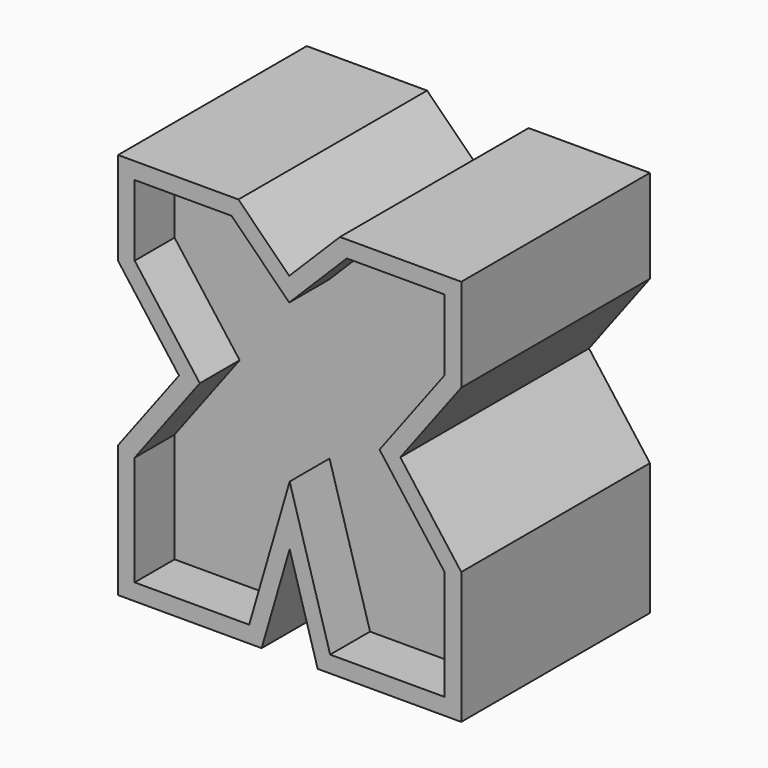
from build123d import *

# Parameters (mm, degrees)
F1_DEPTH = 45.0596
F2_DEPTH = 19.05


with BuildPart() as f1:
    # F0 (on Front) → F1 (new body)
    with BuildSketch(Plane.XZ):
        Polygon((0, 50.419), (0, 0), (54.864, 0), (65.5701, 36.8030026051), (76.2762, 0), (131.1402, 0), (131.1402, 50.419), (107.8484138495, 81.4324), (131.1402, 112.4458), (131.1402, 148.0566), (84.7852, 148.0566), (65.3923, 128.6637), (45.9994, 148.0566), (0, 148.0566), (0, 112.4458), (23.2917861505, 81.4324), align=None)
        Polygon((6.35, 114.5647761782), (6.35, 141.7066), (43.3691438789, 141.7066), (65.3923, 119.6834438789), (87.4154561211, 141.7066), (124.7902, 141.7066), (124.7902, 114.5647761782), (99.9070133581, 81.4324), (124.7902, 48.3000238218), (124.7902, 6.35), (81.0421936034, 6.35), (65.5701, 59.5364545624), (50.0980063966, 6.35), (6.35, 6.35), (6.35, 48.3000238218), (31.2331866419, 81.4324), align=None, mode=Mode.SUBTRACT)
        Polygon((43.3691438789, 141.7066), (6.35, 141.7066), (6.35, 114.5647761782), (31.2331866419, 81.4324), (6.35, 48.3000238218), (6.35, 6.35), (50.0980063966, 6.35), (65.5701, 59.5364545624), (81.0421936034, 6.35), (124.7902, 6.35), (124.7902, 48.3000238218), (99.9070133581, 81.4324), (124.7902, 114.5647761782), (124.7902, 141.7066), (87.4154561211, 141.7066), (65.3923, 119.6834438789), align=None)
    extrude(amount=-F1_DEPTH)

    # F0 (on Front) → F2 (cut, symmetric)
    with BuildSketch(Plane.XZ):
        Polygon((43.3691438789, 141.7066), (6.35, 141.7066), (6.35, 114.5647761782), (31.2331866419, 81.4324), (6.35, 48.3000238218), (6.35, 6.35), (50.0980063966, 6.35), (65.5701, 59.5364545624), (81.0421936034, 6.35), (124.7902, 6.35), (124.7902, 48.3000238218), (99.9070133581, 81.4324), (124.7902, 114.5647761782), (124.7902, 141.7066), (87.4154561211, 141.7066), (65.3923, 119.6834438789), align=None)
    extrude(amount=F2_DEPTH, both=True, mode=Mode.SUBTRACT)

    # F3: F1 across face


with BuildPart() as f1_1:
    add(f1.part)
    add(f1.part.mirror(Plane(origin=(65.5739873585, 45.0596, 73.343942561), x_dir=(1, 0, 0), z_dir=(0, 1, 0))))


solid = f1_1.part
